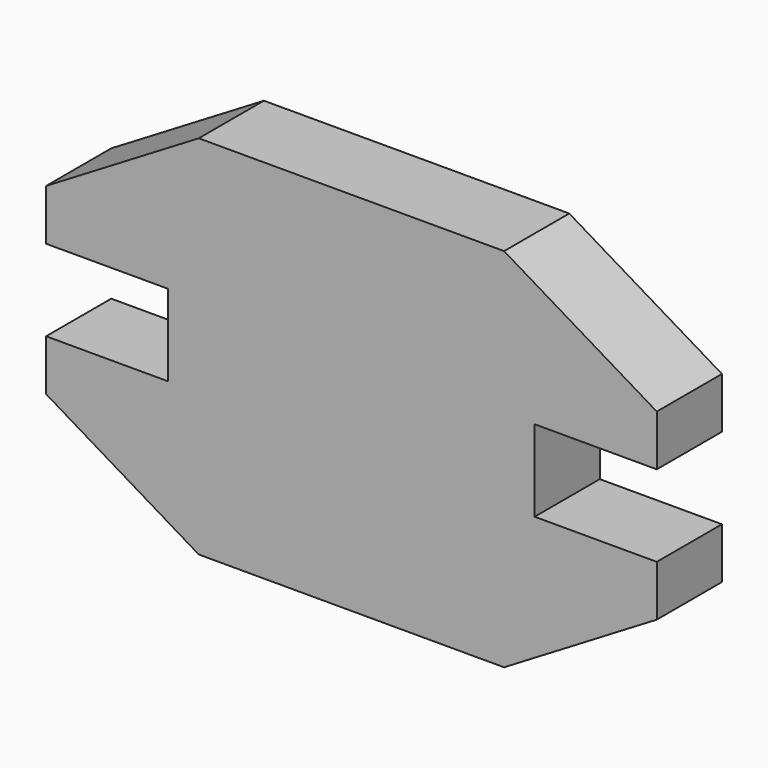
from build123d import *

# Parameters (mm, degrees)
F2_DEPTH = 25.4
F3_DEPTH = 25.4


with BuildPart() as f2:
    # F0 (on Front) → F2 (new body)
    with BuildSketch(Plane.XZ):
        Polygon((47.625, 57.15), (0, 57.15), (-47.625, 57.15), (-95.25, 28.575), (-95.25, 12.7), (-57.15, 12.7), (-57.15, -12.7), (-95.25, -12.7), (-95.25, -28.575), (-47.625, -57.15), (47.625, -57.15), (95.25, -28.575), (95.25, -12.7), (57.15, -12.7), (57.15, 12.7), (95.25, 12.7), (95.25, 28.575), align=None)
    extrude(amount=F2_DEPTH)

    # F0 (on Front) → F3 (cut)
    with BuildSketch(Plane.XZ):
        Polygon((47.625, 57.15), (0, 57.15), (-47.625, 57.15), (-95.25, 28.575), (-95.25, 12.7), (-57.15, 12.7), (-57.15, -12.7), (-95.25, -12.7), (-95.25, -28.575), (-47.625, -57.15), (47.625, -57.15), (95.25, -28.575), (95.25, -12.7), (57.15, -12.7), (57.15, 12.7), (95.25, 12.7), (95.25, 28.575), align=None)
    extrude(amount=-F3_DEPTH, mode=Mode.SUBTRACT)


solid = f2.part
